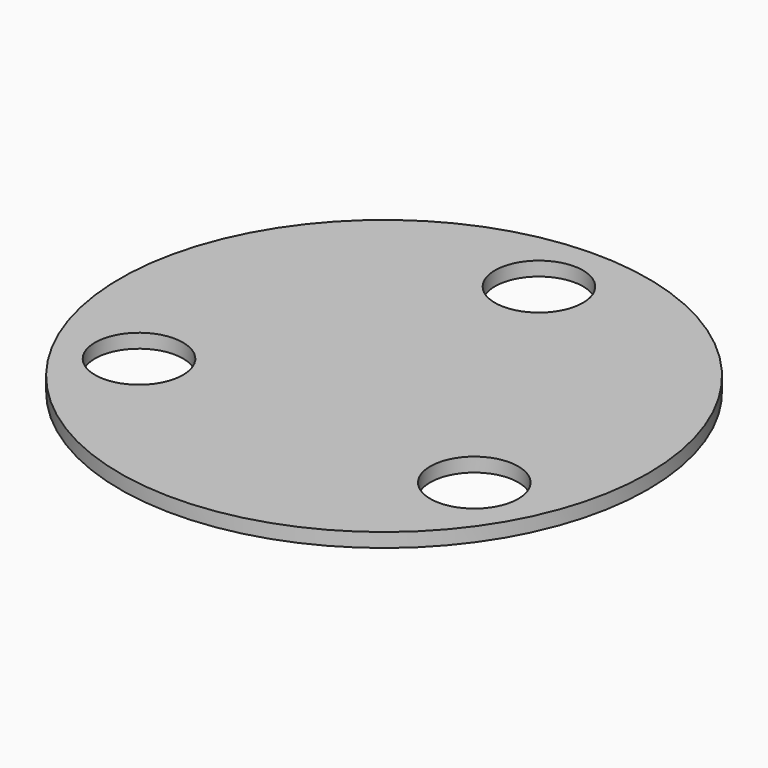
from build123d import *

# Parameters (mm, degrees)
F0_R     = 47.625
F0_R_2   = 7.9375
F1_DEPTH = 2.54


with BuildPart() as f1:
    # F0 (on Top) → F1 (new body)
    with BuildSketch(Plane.XY):
        Circle(F0_R)
        with Locations((-30.245937, -17.4625)):
            Circle(F0_R_2, mode=Mode.SUBTRACT)
        with Locations((30.245937, -17.4625)):
            Circle(F0_R_2, mode=Mode.SUBTRACT)
        with Locations((0, 34.925)):
            Circle(F0_R_2, mode=Mode.SUBTRACT)
    extrude(amount=F1_DEPTH)


solid = f1.part
